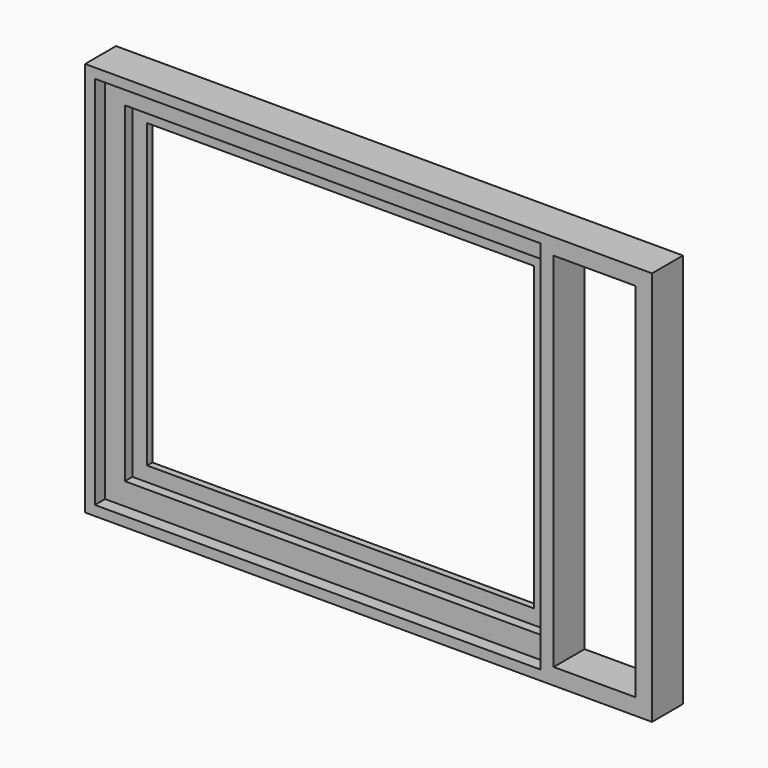
from build123d import *

# Parameters (mm, degrees)
F0_W        = 173
F0_H        = 120.5
F0_W_2      = 136
F0_H_2      = 114.5
F0_W_3      = 25
F0_H_3      = 110.5
F0_W_4      = 127
F0_H_4      = 101
F1_DEPTH    = 5.9
F3_START    = -0.9
F0_W_5      = 118
F0_H_5      = 92
F1_FACE_W   = 173
F1_FACE_H   = 120.5
F1_FACE_W_2 = 25
F1_FACE_H_2 = 110.5
F1_FACE_W_3 = 127
F1_FACE_H_3 = 101
F3_DEPTH    = 2
F4_START    = 2
F4_DEPTH    = 4


with BuildPart() as f1:
    # F0 (on Front) → F1 (new body)
    with BuildSketch(Plane.XZ):
        with Locations((-17.8190767765, 0)):
            Rectangle(F0_W, F0_H)
        with Locations((-33.3190767765, 0)):
            Rectangle(F0_W_2, F0_H_2, mode=Mode.SUBTRACT)
        with Locations((51.1809232235, 0)):
            Rectangle(F0_W_3, F0_H_3, mode=Mode.SUBTRACT)
        with Locations((-33.3190767765, 0)):
            Rectangle(F0_W_2, F0_H_2)
        with Locations((-31.8190767765, 0)):
            Rectangle(F0_W_4, F0_H_4, mode=Mode.SUBTRACT)
    extrude(amount=F1_DEPTH)

    # F2: F1 across face


with BuildPart() as f1_1:
    add(f1.part)
    add(f1.part.mirror(Plane(origin=(-19.9180876192, 0, 0), x_dir=(1, 0, 0), z_dir=(0, 1, 0))))

    # F0 (on Front) + F1_face (on face) → F3 (join)
    with BuildSketch(Plane.XZ.offset(F3_START)):
        with Locations((-31.8190767765, 0)):
            Rectangle(F0_W_4, F0_H_4)
        with Locations((-31.8190767765, 0)):
            Rectangle(F0_W_5, F0_H_5, mode=Mode.SUBTRACT)
    with BuildSketch(Plane(origin=(-19.9180876192, -5.9, 0), x_dir=(1, 0, 0), z_dir=(0, -1, 0)).offset(F3_START)):
        with Locations((2.0990108427, 0)):
            Rectangle(F1_FACE_W, F1_FACE_H)
        with Locations((71.0990108427, 0)):
            Rectangle(F1_FACE_W_2, F1_FACE_H_2, mode=Mode.SUBTRACT)
        with Locations((-11.9009891573, 0)):
            Rectangle(F1_FACE_W_3, F1_FACE_H_3, mode=Mode.SUBTRACT)
    extrude(amount=-F3_DEPTH)

    # F0 (on Front) → F4 (cut)
    with BuildSketch(Plane.XZ.offset(F4_START)):
        with Locations((-33.3190767765, 0)):
            Rectangle(F0_W_2, F0_H_2)
        with Locations((-31.8190767765, 0)):
            Rectangle(F0_W_4, F0_H_4, mode=Mode.SUBTRACT)
    extrude(amount=F4_DEPTH, mode=Mode.SUBTRACT)


solid = f1_1.part
